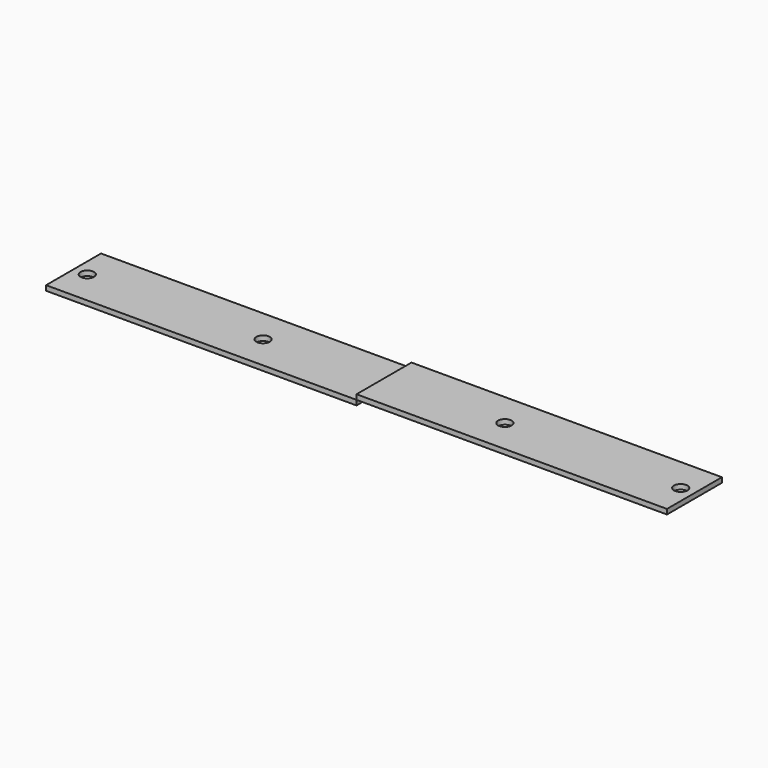
from build123d import *

# Parameters (mm, degrees)
F0_W     = 1130
F0_H     = 250
F0_R     = 24.5
F1_DEPTH = 18
F2_ANGLE = 180


with BuildPart() as f1:
    # F0 (on Top) → F1 (new body)
    with BuildSketch(Plane.XY):
        with Locations((707.524772, 160.124058)):
            Rectangle(F0_W, F0_H)
        with Locations((192.524772, 160.124058)):
            Circle(F0_R, mode=Mode.SUBTRACT)
        with Locations((832.524772, 160.124058)):
            Circle(F0_R, mode=Mode.SUBTRACT)
        with Locations((707.524772, 160.124058)):
            Rectangle(F0_W, F0_H)
        with Locations((192.524772, 160.124058)):
            Circle(F0_R, mode=Mode.SUBTRACT)
        with Locations((832.524772, 160.124058)):
            Circle(F0_R, mode=Mode.SUBTRACT)
        with Locations((707.524772, 160.124058)):
            Rectangle(F0_W, F0_H)
        with Locations((192.524772, 160.124058)):
            Circle(F0_R, mode=Mode.SUBTRACT)
        with Locations((832.524772, 160.124058)):
            Circle(F0_R, mode=Mode.SUBTRACT)
    extrude(amount=F1_DEPTH)


with BuildPart() as f2_1:
    # F2: copy of F1
    add(f1.part.rotate(Axis((1272.524772, 160.124058, 18), (0, 1, 0)), F2_ANGLE))


solid = Compound([f1.part, f2_1.part])
